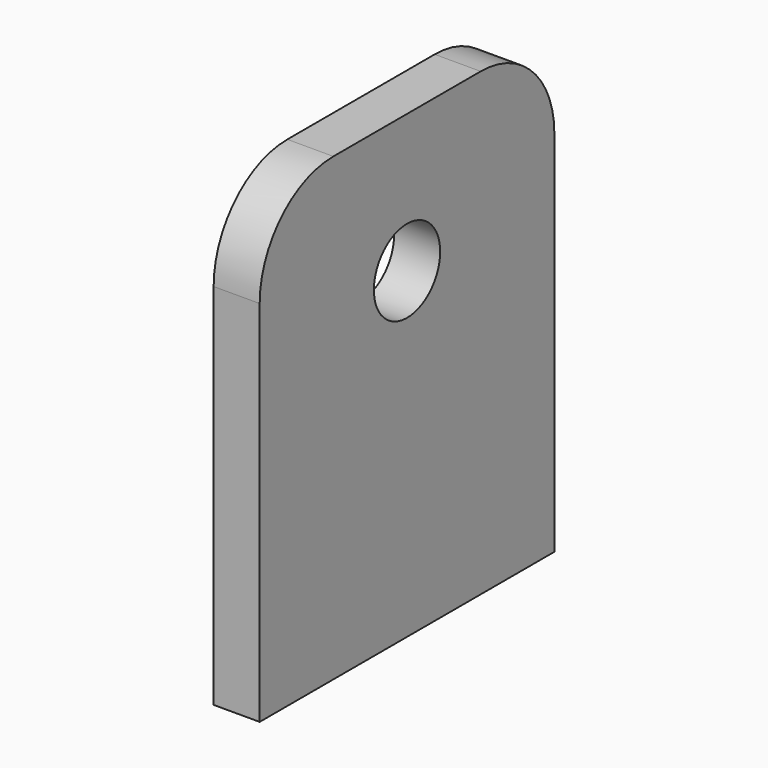
from build123d import *

# Parameters (mm, degrees)
F0_R     = 4.5
F1_DEPTH = 5


with BuildPart() as f1:
    # F0 (on Right) → F1 (new body)
    with BuildSketch(Plane.YZ):
        with BuildLine():
            Line((11.733489, 34.444981), (-8.266511, 34.444981))
            ThreePointArc((-8.266511, 34.444981), (-15.337578, 31.516049), (-18.266511, 24.444981))
            Line((-18.266511, 24.444981), (-18.266511, -15.555019))
            Line((-18.266511, -15.555019), (21.733489, -15.555019))
            Line((21.733489, -15.555019), (21.733489, 24.444981))
            ThreePointArc((21.733489, 24.444981), (18.804557, 31.516049), (11.733489, 34.444981))
        make_face()
        with Locations((1.733489, 19.444981)):
            Circle(F0_R, mode=Mode.SUBTRACT)
    extrude(amount=F1_DEPTH)


solid = f1.part
